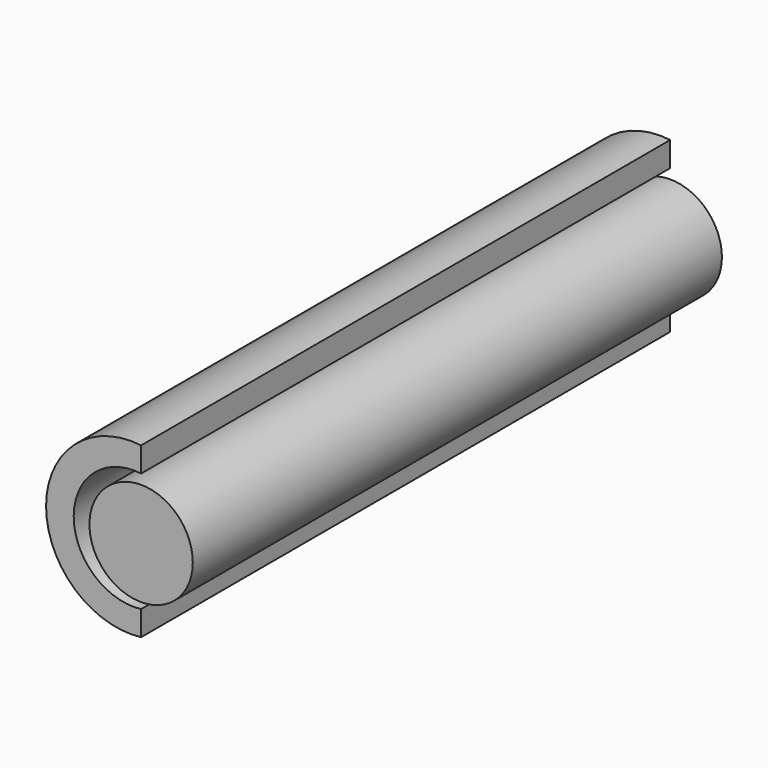
from build123d import *

# Parameters (mm, degrees)
F0_R     = 7.9375
F1_DEPTH = 101.6


with BuildPart() as f1:
    # F0 (on Front) → F1 (new body)
    with BuildSketch(Plane.XZ):
        with BuildLine():
            ThreePointArc((0, -8.879608), (-10.352616, 0.285607), (0, 9.450822))
            Line((0, 9.450822), (0, 13.260822))
            ThreePointArc((0, 13.260822), (-14.596247, 0.285607), (0, -12.689608))
            Line((0, -12.689608), (0, -8.879608))
        make_face()
        Circle(F0_R)
    extrude(amount=F1_DEPTH)


solid = f1.part
